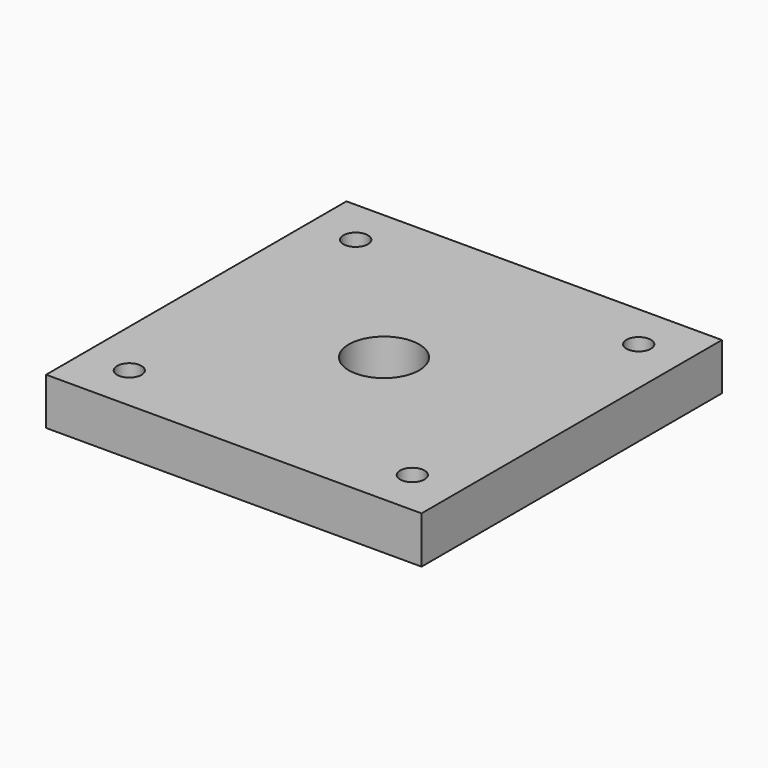
from build123d import *

# Parameters (mm, degrees)
SKETCH_W   = 80
SKETCH_H   = 80
SKETCH_R   = 2.6
SKETCH_R_2 = 7.5
PAD_DEPTH  = 10


with BuildPart() as part:
    # Sketch → Pad (new body)
    with BuildSketch(Plane.XY):
        with Locations((-45.216256, -0.436697)):
            Rectangle(SKETCH_W, SKETCH_H)
        with Locations((-75.366256, 29.713303)):
            Circle(SKETCH_R, mode=Mode.SUBTRACT)
        with Locations((-15.066256, 29.713303)):
            Circle(SKETCH_R, mode=Mode.SUBTRACT)
        with Locations((-15.066256, -30.586697)):
            Circle(SKETCH_R, mode=Mode.SUBTRACT)
        with Locations((-75.366256, -30.586697)):
            Circle(SKETCH_R, mode=Mode.SUBTRACT)
        with Locations((-45.216256, -0.436697)):
            Circle(SKETCH_R_2, mode=Mode.SUBTRACT)
    extrude(amount=PAD_DEPTH)


solid = part.part
